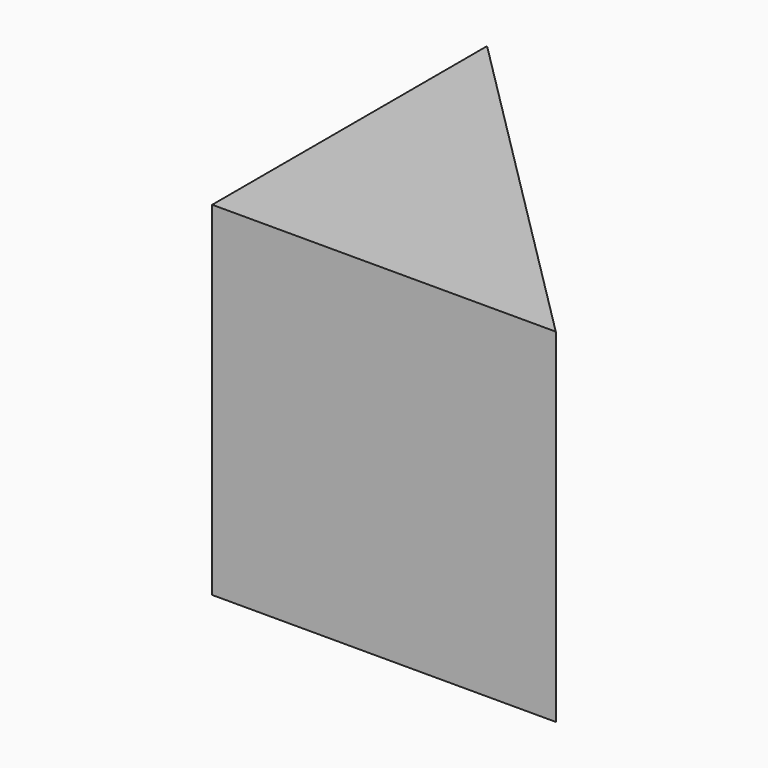
from build123d import *

# Parameters (mm, degrees)
F1_DEPTH = 43.688
F2_R     = 9.652
F3_DEPTH = 43.689


with BuildPart() as f1:
    # F0 (on Top) → F1 (new body)
    with BuildSketch(Plane.XY):
        Polygon((-57.024277, 46.168647), (-57.024277, 2.480647), (-13.336277, 2.480647), align=None)
    extrude(amount=F1_DEPTH)

    # F2 (on face) → F3 (cut, through all)
    with BuildSketch(Plane(origin=(-57.024277, 0, 0), x_dir=(0, -1, 0), z_dir=(-1, 0, 0))):
        with Locations((-24.324647, 21.844)):
            Circle(F2_R)
    extrude(amount=-F3_DEPTH, mode=Mode.SUBTRACT)


solid = f1.part
